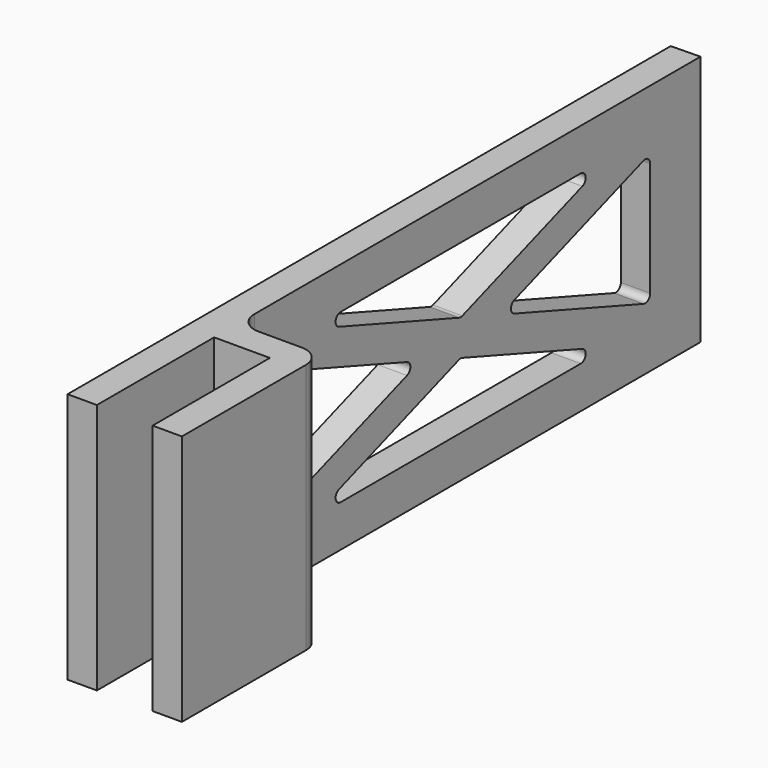
from build123d import *

# Parameters (mm, degrees)
F1_DEPTH = 60
F3_DEPTH = 25
F4_R     = 5
F5_R     = 1.5


with BuildPart() as f1:
    # F0 (on Top) → F1 (new body)
    with BuildSketch(Plane.XY):
        Polygon((-20.3012, 115.696498), (-27.3, 115.56689), (-27.3, -64.43311), (-20.3, -64.43311), (-20.3, -29.43311), (-7, -29.43311), (-7, -64.43311), (0, -64.43311), (0, -22.43311), (-20.3012, -22.43311), align=None)
    extrude(amount=F1_DEPTH)

    # F2 (on face) → F3 (cut)
    with BuildSketch(Plane.YZ.offset(-20.3012)):
        Polygon((32.132399, 30), (-12.43311, 45.757328), (-12.43311, 14.242672), align=None)
        Polygon((88.697203, 50), (-0.433815, 50), (44.131694, 34.242672), align=None)
        Polygon((100.696498, 14.242672), (100.696498, 45.757328), (56.130989, 30), align=None)
        Polygon((44.131694, 25.757328), (-0.433815, 10), (88.697203, 10), align=None)
    extrude(amount=-F3_DEPTH, mode=Mode.SUBTRACT)

    # F4
    f4_edges = [f1.edges().sort_by_distance(p)[0] for p in [
        (0, -22.43311, 30),
        (-20.3012, -22.43311, 30),
    ]]
    fillet(f4_edges, radius=F4_R)

    # F5
    f5_edges = [f1.edges().sort_by_distance(p)[0] for p in [
        (-23.8006, -12.43311, 14.242672),
        (-23.8006, -12.43311, 45.757328),
        (-23.8006, -0.433815, 10),
        (-23.8006, -0.433815, 50),
        (-23.8006, 32.132399, 30),
        (-23.8006, 44.131694, 34.242672),
        (-23.8006, 44.131694, 25.757328),
        (-23.8006, 56.130989, 30),
        (-23.8006, 88.697203, 50),
        (-23.8006, 100.696498, 45.757328),
        (-23.8006, 100.696498, 14.242672),
        (-23.8006, 88.697203, 10),
    ]]
    fillet(f5_edges, radius=F5_R)


solid = f1.part
